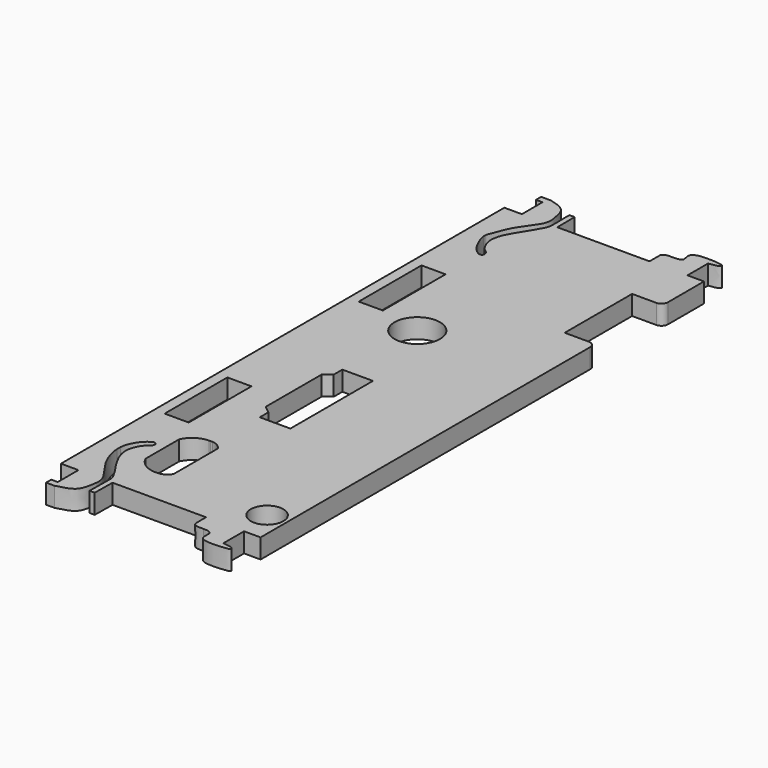
from build123d import *

# Parameters (mm, degrees)
F0_W     = 3.7084
F0_H     = 12.06
F0_R     = 2.5
F0_R_2   = 3.5
F1_DEPTH = 3


with BuildPart() as f1:
    # F0 (on Top) → F1 (new body)
    with BuildSketch(Plane.XY):
        with BuildLine():
            Line((-30.3255202817, 54.6972608811), (-33.0179202817, 54.6972608811))
            Line((-33.0179202817, 54.6972608811), (-33.0179202817, -30.5627391189))
            Line((-33.0179202817, -30.5627391189), (-30.3255202817, -30.5627391189))
            Line((-30.3255202817, -30.5627391189), (-30.3255202817, -34.5327391189))
            Line((-30.3255202817, -34.5327391189), (-31.3255202817, -34.5327391189))
            Line((-31.3255202817, -34.5327391189), (-31.3255202817, -35.5327391189))
            Line((-31.3255202817, -35.5327391189), (-30.0465778309, -35.5327391189))
            add(Edge.make_bspline(
                [(-30.0465778309, -35.5327391189), (-29.0542660125, -35.2685021322), (-27.1312752249, -34.861753353), (-26.7034450117, -32.4983814243), (-26.3027082761, -30.4256681512), (-28.9224390093, -27.4970702453), (-29.8794002046, -25.057892097), (-30.0850495272, -23.9257134), (-30.1185005971, -23.4473318782)],
                knots=[0, 0, 0, 0, 0.1206112414, 0.224448157, 0.3260915004, 0.4658356432, 0.5839561245, 0.6735096428, 0.6735096428, 0.6735096428, 0.6735096428], degree=3))
            add(Edge.make_bspline(
                [(-30.1185005971, -23.4473318782), (-30.1347735406, -23.2146135975), (-30.1379762837, -22.9842236069), (-30.1184997649, -22.7460887202)],
                knots=[0.6735096428, 0.6735096428, 0.6735096428, 0.6735096428, 0.717074747, 0.717074747, 0.717074747, 0.717074747], degree=3))
            add(Edge.make_bspline(
                [(-30.1184997649, -22.7460887202), (-30.0991217901, -22.5091587059), (-29.949587152, -21.6347347705), (-29.0824860737, -19.9248292282), (-27.7537398554, -19.0928034317), (-27.5335005971, -19.2627391189)],
                knots=[0.717074747, 0.717074747, 0.717074747, 0.717074747, 0.7604194282, 0.8720303172, 0.9581218014, 0.9581218014, 0.9581218014, 0.9581218014], degree=3))
            add(Edge.make_bspline(
                [(-27.5335005971, -19.2627391189), (-27.4419565035, -19.3237464606), (-27.2236001371, -19.4692682262), (-27.4229707249, -20.2204130794), (-28.2568417379, -20.5735485862), (-29.0688276696, -22.2682997811), (-29.048270231, -23.4073773795), (-28.8076640714, -24.7098437986), (-27.4984927375, -27.0537445911), (-25.6509412483, -29.5161804605), (-25.9222293614, -30.2941341727), (-25.8846127289, -30.5627391189)],
                knots=[0, 0, 0, 0, 0.0555574968, 0.1328440618, 0.225421424, 0.3569608994, 0.4616530765, 0.5708084503, 0.7356855595, 0.905685347, 1, 1, 1, 1], degree=3))
            Line((-25.8846127289, -30.5627391189), (-25.9227476544, -33.9293153014))
            Line((-25.9227476544, -33.9293153014), (-25.1185202817, -33.9384251951))
            Line((-25.1185202817, -33.9384251951), (-25.0802821638, -30.5627391189))
            Line((-25.0802821638, -30.5627391189), (-10.6913202817, -30.5627391189))
            Line((-10.6913202817, -30.5627391189), (-10.6913202817, -32.491491082))
            add(Edge.make_bspline(
                [(-9.0111005971, -33.1198246207), (-9.5104731019, -33.1125810807), (-10.3246713293, -33.1645274657), (-10.6749330928, -32.7109473036), (-10.6913202817, -32.491491082)],
                knots=[0.8053619594, 0.8053619594, 0.8053619594, 0.8053619594, 0.9199732187, 1, 1, 1, 1], degree=3))
            add(Edge.make_bspline(
                [(-4.8493202817, -34.5251391189), (-4.5598271377, -34.5742578802), (-3.8944496954, -34.6175113453), (-3.2277093509, -34.8723543508), (-3.1809502223, -35.2322471625), (-3.8577286947, -35.4118651006), (-7.3470859543, -35.6849731368), (-7.8658240881, -34.58367362), (-7.5547970986, -33.2089896094), (-8.5296328153, -33.1268084476), (-9.0111005971, -33.1198246207)],
                knots=[0, 0, 0, 0, 0.0999788563, 0.1816864817, 0.2284028423, 0.3060193801, 0.4905041385, 0.5899200265, 0.6948600229, 0.8053619594, 0.8053619594, 0.8053619594, 0.8053619594], degree=3))
            Line((-4.8493202817, -34.5251391189), (-4.8493202817, -30.5627391189))
            Line((-4.8493202817, -30.5627391189), (-2.3093202817, -30.5627391189))
            Line((-2.3093202817, -30.5627391189), (-2.3093202817, 32.8184608811))
            ThreePointArc((-2.3093202817, 32.8184608811), (-2.6022135006, 33.5255676623), (-3.3093202817, 33.8184608811))
            Line((-3.3093202817, 33.8184608811), (-7.0299005971, 33.8184608811))
            Line((-7.0299005971, 33.8184608811), (-7.0299005971, 46.7724608811))
            Line((-7.0299005971, 46.7724608811), (-3.3093202817, 46.7724608811))
            ThreePointArc((-3.3093202817, 46.7724608811), (-2.6022135006, 47.0653540999), (-2.3093202817, 47.7724608811))
            Line((-2.3093202817, 47.7724608811), (-2.3093202817, 54.6972608811))
            Line((-2.3093202817, 54.6972608811), (-4.8493202817, 54.6972608811))
            Line((-4.8493202817, 54.6972608811), (-4.8493202817, 58.6596608811))
            add(Edge.make_bspline(
                [(-4.8493202817, 58.6596608811), (-4.5617399693, 58.7084550892), (-3.8933589127, 58.7520656237), (-3.2286250578, 59.0070734433), (-3.1788282676, 59.366232748), (-3.8803713676, 59.5522491057), (-7.2374062882, 59.7795334193), (-8.2039564746, 58.7601549354), (-7.4608966899, 57.3400786879), (-9.0753517903, 57.2183445779), (-10.3192401725, 57.2998260761), (-10.6750413714, 56.8440190045), (-10.6913202817, 56.6260128441)],
                knots=[0, 0, 0, 0, 0.0993182441, 0.1804859847, 0.2268936661, 0.3039973511, 0.4872631229, 0.5925610324, 0.6968762413, 0.806648034, 0.9205019972, 1, 1, 1, 1], degree=3))
            Line((-10.6913202817, 56.6260128441), (-10.6913202817, 54.6972608811))
            Line((-10.6913202817, 54.6972608811), (-24.8732624792, 54.6972608811))
            Line((-24.8732624792, 54.6972608811), (-24.9115005888, 58.0729470142))
            Line((-24.9115005888, 58.0729470142), (-25.7157279615, 58.0638371227))
            Line((-25.7157279615, 58.0638371227), (-25.6775930443, 54.6972608811))
            add(Edge.make_bspline(
                [(-27.5335005971, 43.3972608811), (-27.4420878726, 43.458180675), (-27.2235099986, 43.6038466512), (-27.4230277063, 44.3549153311), (-28.2566925656, 44.7080719301), (-29.0695070788, 46.4028559785), (-29.0462971883, 47.5417930568), (-28.817109508, 48.8448704557), (-27.4420350281, 51.1852051842), (-25.8214841356, 53.6691447705), (-25.7157279615, 54.4249550762), (-25.6775930443, 54.6972608811)],
                knots=[0, 0, 0, 0, 0.0554777698, 0.1326534257, 0.2250979361, 0.3564486475, 0.4609905876, 0.5699893194, 0.7346282553, 0.9043858727, 1, 1, 1, 1], degree=3))
            add(Edge.make_bspline(
                [(-30.3255202817, 47.363353879), (-30.3021743332, 46.9752354762), (-29.9451588522, 45.9909590292), (-29.1102476588, 44.058309756), (-27.7560898154, 43.227303649), (-27.5335005971, 43.3972608811)],
                knots=[0.6858638974, 0.6858638974, 0.6858638974, 0.6858638974, 0.760005146, 0.8718090323, 0.9580493857, 0.9580493857, 0.9580493857, 0.9580493857], degree=3))
            add(Edge.make_bspline(
                [(-30.3255202817, 47.5818536404), (-30.3300917762, 47.5089567217), (-30.3299040056, 47.4362317879), (-30.3255202817, 47.363353879)],
                knots=[0.6719422201, 0.6719422201, 0.6719422201, 0.6719422201, 0.6858638974, 0.6858638974, 0.6858638974, 0.6858638974], degree=3))
            add(Edge.make_bspline(
                [(-29.8395581462, 59.6672608811), (-28.8800176747, 59.4117503871), (-27.1675545938, 58.9558795646), (-26.6951478075, 56.6355261243), (-26.2975507344, 54.5585972446), (-28.966783586, 51.6350792711), (-29.7577958737, 49.1731274375), (-30.2955831957, 48.05922955), (-30.3255202817, 47.5818536404)],
                knots=[0, 0, 0, 0, 0.1166280249, 0.220644495, 0.3224635999, 0.462449388, 0.580774123, 0.6719422201, 0.6719422201, 0.6719422201, 0.6719422201], degree=3))
            Line((-29.8395581462, 59.6672608811), (-31.3255202817, 59.6672608811))
            Line((-31.3255202817, 59.6672608811), (-31.3255202817, 58.6672608811))
            Line((-31.3255202817, 58.6672608811), (-30.3255202817, 58.6672608811))
            Line((-30.3255202817, 58.6672608811), (-30.3255202817, 54.6972608811))
        make_face()
        with BuildLine():
            ThreePointArc((-22.6463557082, -25.2167526633), (-22.7753526566, -25.2191921124), (-22.904349605, -25.2167526633))
            ThreePointArc((-22.904349605, -25.2167526633), (-24.6796244618, -24.6383299025), (-25.8846127289, -23.2120841371))
            Line((-25.8846127289, -23.2120841371), (-25.8846127289, -16.7566211894))
            ThreePointArc((-25.8846127289, -16.7566211894), (-24.6796244618, -15.330375424), (-22.904349605, -14.7519526633))
            ThreePointArc((-22.904349605, -14.7519526633), (-22.7753526566, -14.7495132141), (-22.6463557082, -14.7519526633))
            ThreePointArc((-22.6463557082, -14.7519526633), (-22.507300004, -14.7471973552), (-22.3682442997, -14.7519526633))
            ThreePointArc((-22.3682442997, -14.7519526633), (-21.4377485722, -15.0508383898), (-20.7538127289, -15.7489692792))
            Line((-20.7538127289, -15.7489692792), (-20.7538127289, -24.2197360473))
            ThreePointArc((-20.7538127289, -24.2197360473), (-21.4377485722, -24.9178669367), (-22.3682442997, -25.2167526633))
            ThreePointArc((-22.3682442997, -25.2167526633), (-22.507300004, -25.2215079713), (-22.6463557082, -25.2167526633))
        make_face(mode=Mode.SUBTRACT)
        with Locations((-29.5635202817, -6.5927391189)):
            Rectangle(F0_W, F0_H, mode=Mode.SUBTRACT)
        Polygon((-17.1965047061, -6.2271989882), (-21.9022054225, -6.2271989882), (-21.9022054225, -4.5671989882), (-23.0465047061, -3.6771989882), (-23.0465047061, 7.1028010118), (-21.9022054225, 7.9928010118), (-21.9022054225, 9.6528010118), (-17.1965047061, 9.6528010118), align=None, mode=Mode.SUBTRACT)
        with Locations((-5.3093202817, -25.5627391189)):
            Circle(F0_R, mode=Mode.SUBTRACT)
        with Locations((-29.5635202817, 30.7272608811)):
            Rectangle(F0_W, F0_H, mode=Mode.SUBTRACT)
        with Locations((-21.2093202817, 23.1972608811)):
            Circle(F0_R_2, mode=Mode.SUBTRACT)
    extrude(amount=F1_DEPTH)


solid = f1.part
